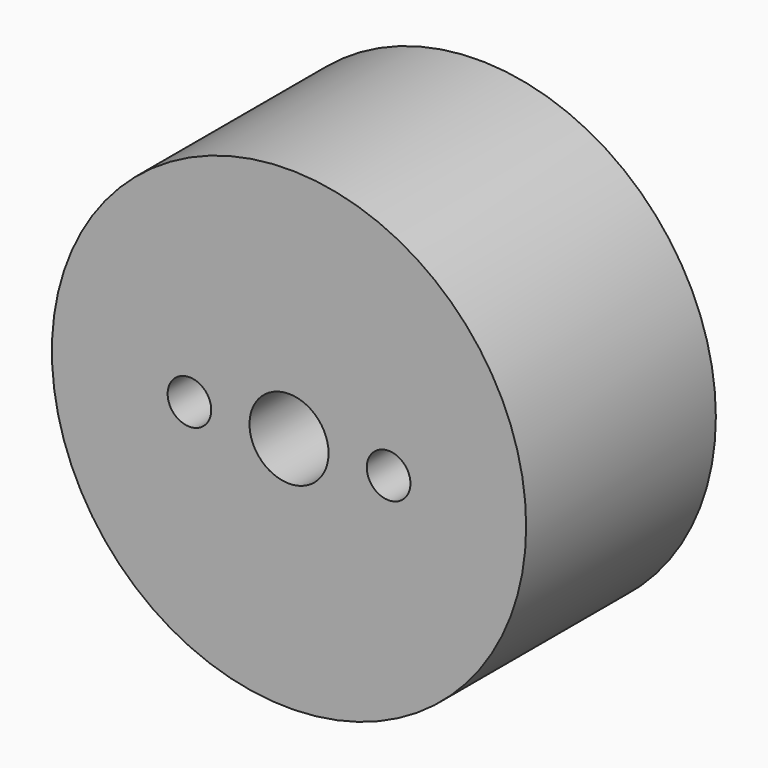
from build123d import *

# Parameters (mm, degrees)
F0_R     = 19.05
F0_R_2   = 1.7526
F0_R_3   = 3.175
F1_DEPTH = 19.05


with BuildPart() as f1:
    # F0 (on Front) → F1 (new body)
    with BuildSketch(Plane.XZ):
        Circle(F0_R)
        with Locations((-8.000009, 0)):
            Circle(F0_R_2, mode=Mode.SUBTRACT)
        Circle(F0_R_3, mode=Mode.SUBTRACT)
        with Locations((8.000009, 0)):
            Circle(F0_R_2, mode=Mode.SUBTRACT)
    extrude(amount=F1_DEPTH)


solid = f1.part
